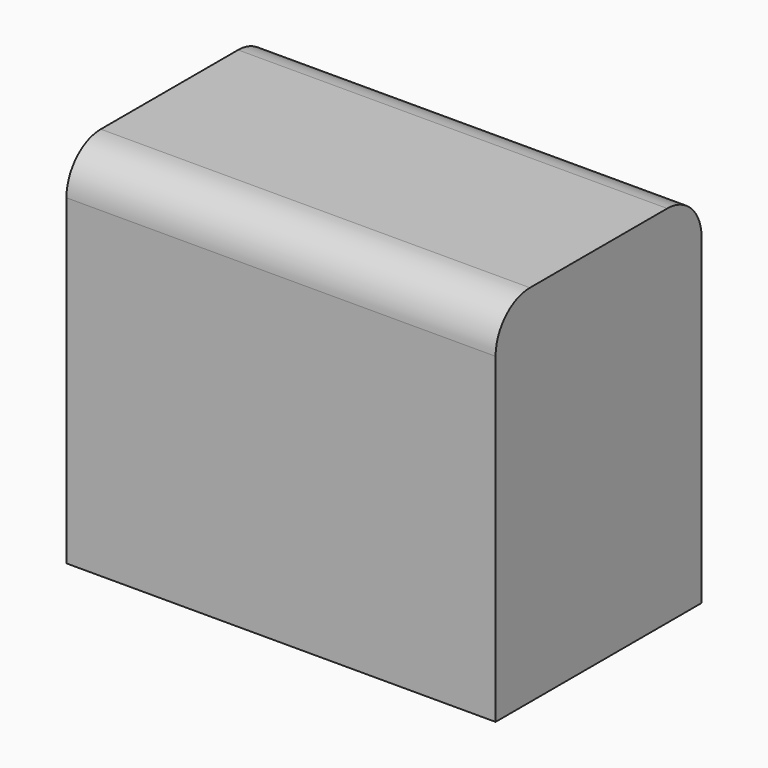
from build123d import *

# Parameters (mm, degrees)
F0_W     = 50
F0_H     = 30
F1_DEPTH = 30
F2_R     = 5
F3_DEPTH = 12.5


with BuildPart() as f1:
    # F0 (on Top) → F1 (new body)
    with BuildSketch(Plane.XY):
        with Locations((25, -15)):
            Rectangle(F0_W, F0_H)
    extrude(amount=F1_DEPTH)

    # F2
    f2_edges = [f1.edges().sort_by_distance(p)[0] for p in [
        (25, -30, 0),
        (25, 0, 0),
        (25, 0, 30),
        (25, -30, 30),
    ]]
    fillet(f2_edges, radius=F2_R)

    # F0 (on Top) → F3 (join, symmetric)
    with BuildSketch(Plane.XY):
        with Locations((25, -15)):
            Rectangle(F0_W, F0_H)
    extrude(amount=F3_DEPTH, both=True)


solid = f1.part
